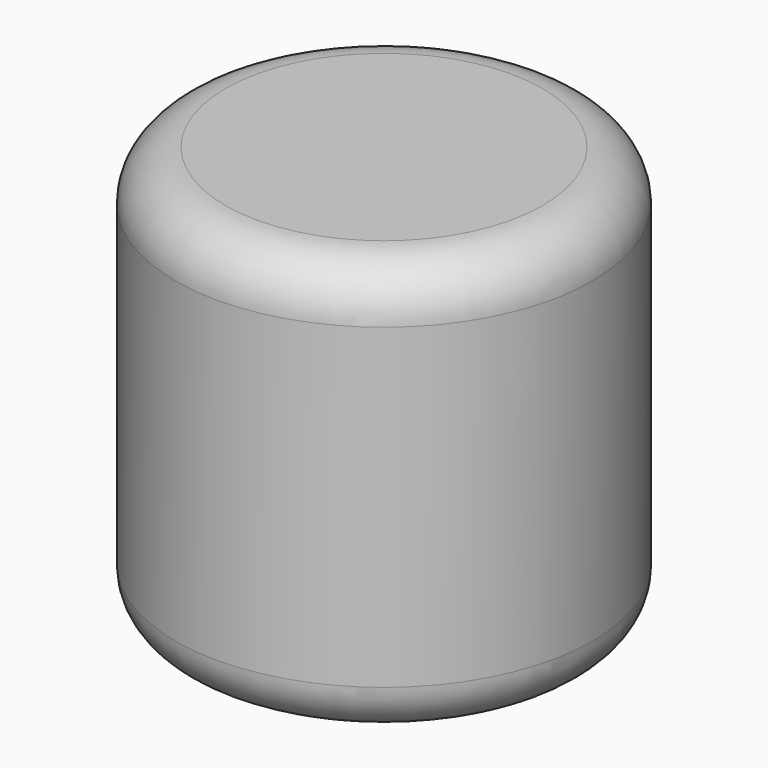
from build123d import *

# Parameters (mm, degrees)
F0_R     = 6.35
F1_DEPTH = 6.35
F2_R     = 1.524
F3_R     = 1.524


with BuildPart() as f1:
    # F0 (on Top) → F1 (new body, symmetric)
    with BuildSketch(Plane.XY):
        Circle(F0_R)
    extrude(amount=F1_DEPTH, both=True)

    # F2
    f2_edges = [f1.edges().sort_by_distance(p)[0] for p in [
        (-6.35, 0, -6.35),
    ]]
    fillet(f2_edges, radius=F2_R)

    # F3
    f3_edges = [f1.edges().sort_by_distance(p)[0] for p in [
        (-6.35, 0, 6.35),
    ]]
    fillet(f3_edges, radius=F3_R)


solid = f1.part
